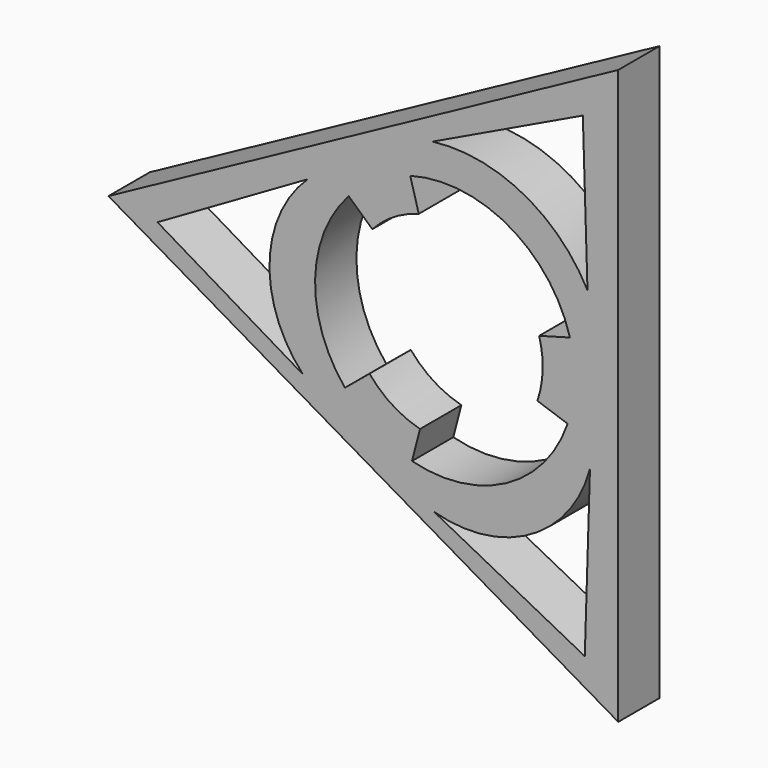
from build123d import *

# Parameters (mm, degrees)
F1_DEPTH = 3.175


with BuildPart() as f1:
    # F0 (on Front) → F1 (new body)
    with BuildSketch(Plane.XZ):
        Polygon((-72.369672, 6.374768), (-103.69873, -10.638363), (-72.369672, -28.896356), align=None)
        with BuildLine():
            Line((-74.425228, -26.013341), (-83.686322, -21.209428))
            ThreePointArc((-83.686322, -21.209428), (-77.749039, -20.497336), (-74.10603, -15.755301))
            Line((-74.10603, -15.755301), (-74.425228, -26.013341))
        make_face(mode=Mode.SUBTRACT)
        with BuildLine():
            Line((-100.683235, -11.072023), (-91.455244, -5.744239))
            ThreePointArc((-91.455244, -5.744239), (-93.799573, -11.011734), (-91.741882, -16.397668))
            Line((-91.741882, -16.397668), (-100.683235, -11.072023))
        make_face(mode=Mode.SUBTRACT)
        with BuildLine():
            ThreePointArc((-89.166283, -16.280825), (-90.997946, -11.016883), (-88.93518, -5.839134))
            Line((-88.93518, -5.839134), (-87.481662, -7.155987))
            ThreePointArc((-87.481662, -7.155987), (-86.180176, -6.074148), (-84.628788, -5.397809))
            Line((-84.628788, -5.397809), (-85.151792, -3.507496))
            ThreePointArc((-85.151792, -3.507496), (-79.094247, -4.254975), (-75.339463, -9.066853))
            Line((-75.339463, -9.066853), (-77.229776, -9.589857))
            ThreePointArc((-77.229776, -9.589857), (-77.066726, -10.38424), (-77.012044, -11.193339))
            ThreePointArc((-77.012044, -11.193339), (-77.093691, -12.180894), (-77.336416, -13.141632))
            Line((-77.336416, -13.141632), (-75.480885, -13.777102))
            ThreePointArc((-75.480885, -13.777102), (-79.256283, -18.22104), (-85.046885, -18.907439))
            Line((-85.046885, -18.907439), (-84.549683, -17.010176))
            ThreePointArc((-84.549683, -17.010176), (-86.258214, -16.263607), (-87.655926, -15.029571))
            Line((-87.655926, -15.029571), (-89.166283, -16.280825))
        make_face(mode=Mode.SUBTRACT)
        with BuildLine():
            Line((-74.545905, 3.199159), (-74.259683, -6.160228))
            ThreePointArc((-74.259683, -6.160228), (-78.248065, -2.205969), (-83.775736, -1.211882))
            Line((-83.775736, -1.211882), (-74.545905, 3.199159))
        make_face(mode=Mode.SUBTRACT)
    extrude(amount=F1_DEPTH)


solid = f1.part
